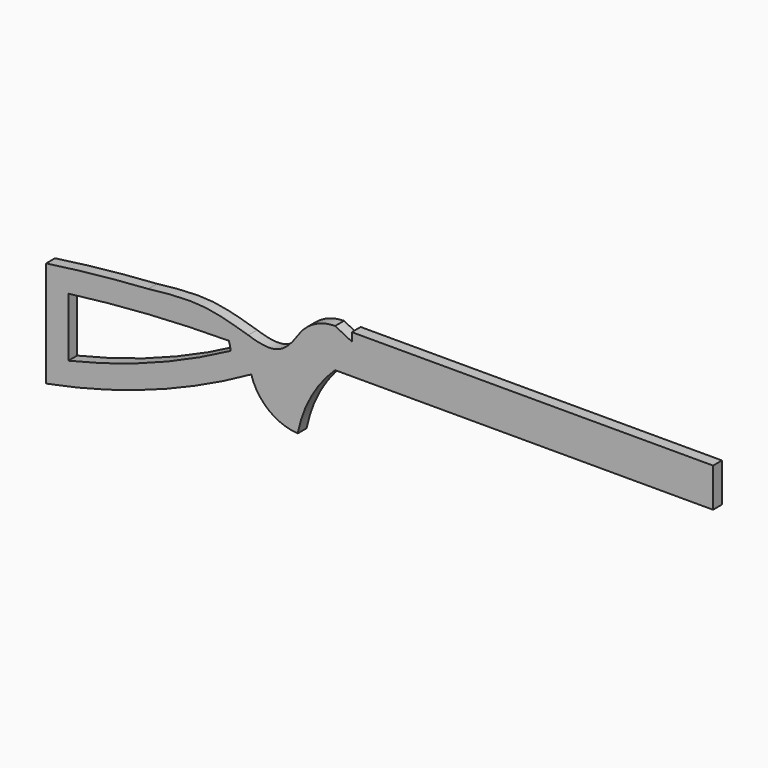
from build123d import *

# Parameters (mm, degrees)
F0_W     = 9.525
F0_H     = 3.175
F1_DEPTH = 6.35


with BuildPart() as f1:
    # F0 (on Front) → F1 (new body)
    with BuildSketch(Plane.XZ):
        with BuildLine():
            Line((5.5730567589, 21.4903141894), (15.0980567589, 21.4903141894))
            Line((15.0980567589, 21.4903141894), (15.0980567589, 40.5403141894))
            Line((15.0980567589, 40.5403141894), (-13.4769432411, 40.5403141894))
            Line((-13.4769432411, 40.5403141894), (-13.4769432411, 35.7778141894))
            Line((-13.4769432411, 35.7778141894), (-23.0019432411, 40.5403141894))
            ThreePointArc((-23.0019432411, 40.5403141894), (-33.867255358, 38.0721011887), (-42.5998616764, 31.1519371949))
            add(Edge.make_bspline(
                [(-42.5998616764, 31.1519371949), (-46.6590733544, 25.2888518496), (-53.5716864964, 15.207621755), (-66.7301810359, 17.8053043808), (-72.6186635442, 19.795035437)],
                knots=[0, 0, 0, 0, 0.4383497203, 0.7439342861, 0.7439342861, 0.7439342861, 0.7439342861], degree=3))
            add(Edge.make_bspline(
                [(-72.6186635442, 19.795035437), (-81.0575831898, 22.2622691724), (-98.5879322702, 27.8603017843), (-119.1599788422, 25.6785600172), (-129.8075613689, 24.4420829033)],
                knots=[0, 0, 0, 0, 0.4802477188, 1, 1, 1, 1], degree=3))
            ThreePointArc((-129.8075613689, 24.4420829033), (-159.0145139042, 21.9473123865), (-188.1019432411, 18.3153141894))
            Line((-188.1019432411, 18.3153141894), (-188.1019432411, -42.1336164723))
            ThreePointArc((-188.1019432411, -42.1336164723), (-127.7523133593, -25.5758966807), (-70.9025571094, 0.5840178049))
            ThreePointArc((-70.9025571094, 0.5840178049), (-60.9486654015, -14.1262140362), (-44.3572076008, -20.4661201082))
            ThreePointArc((-44.3572076008, -20.4661201082), (-36.6931048374, 0.5840178049), (-23.0019432411, 18.3153141894))
            Line((-23.0019432411, 18.3153141894), (5.5730567589, 18.3153141894))
            Line((5.5730567589, 18.3153141894), (5.5730567589, 21.4903141894))
        make_face()
        with BuildLine():
            ThreePointArc((-175.4019432411, 7.2385263271), (-129.6395451528, 11.7253734892), (-83.6866532576, 13.356508896))
            ThreePointArc((-83.6866532576, 13.356508896), (-83.0126150127, 11.0031055301), (-82.7051188135, 8.5744678368))
            ThreePointArc((-82.7051188135, 8.5744678368), (-127.8755340793, -12.0743160039), (-175.4019432411, -26.4957972582))
            Line((-175.4019432411, -26.4957972582), (-175.4019432411, 7.2385263271))
        make_face(mode=Mode.SUBTRACT)
        with Locations((10.3355567589, 19.9028141894)):
            Rectangle(F0_W, F0_H)
        Polygon((15.0980567589, 21.4903141894), (15.0980567589, 18.3153141894), (192.8980567589, 18.3153141894), (192.8980567589, 40.5403141894), (15.0980567589, 40.5403141894), align=None)
    extrude(amount=F1_DEPTH)


solid = f1.part
